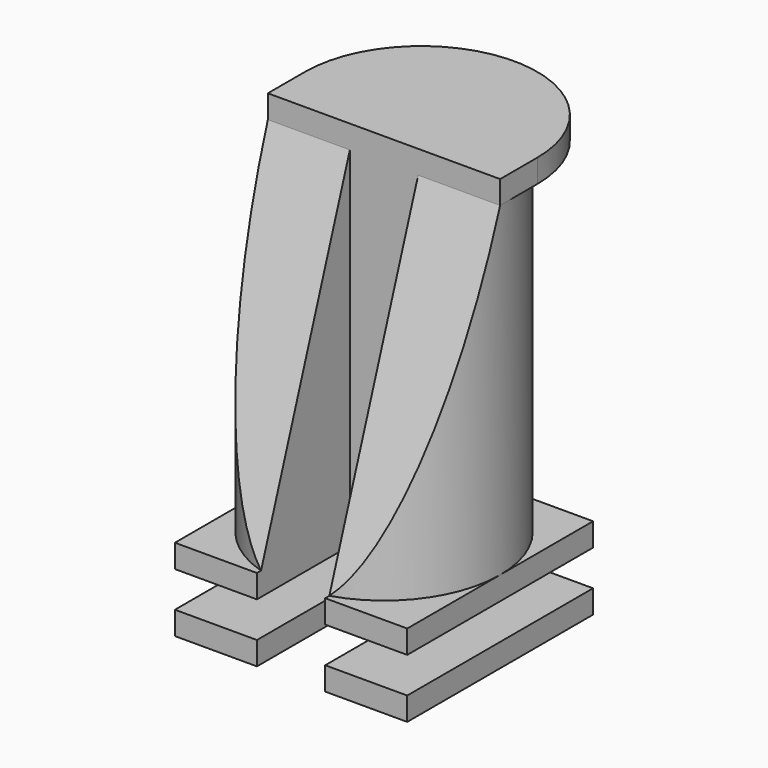
from build123d import *

# Parameters (mm, degrees)
F2_DEPTH  = 5
F3_W      = 14.7
F3_H      = 25
F4_DEPTH  = 7.7
F6_DEPTH  = 5
F8_DEPTH  = 70
F10_DEPTH = 5
F12_DEPTH = 50.001


with BuildPart() as f2:
    # F1 (on Top) → F2 (new body)
    with BuildSketch(Plane.XY):
        Polygon((0, 50), (0, 0), (17.65, 0), (17.65, 25), (32.35, 25), (32.35, 0), (50, 0), (50, 50), align=None)
    extrude(amount=F2_DEPTH)

    # F3 (on face) → F4 (join)
    with BuildSketch(Plane.XY.offset(5)):
        with Locations((25, 37.5)):
            Rectangle(F3_W, F3_H)
    extrude(amount=F4_DEPTH)

    # F5 (on face) → F6 (join)
    with BuildSketch(Plane.XY.offset(12.7)):
        Polygon((0, 50), (0, 0), (17.65, 0), (17.65, 25), (32.35, 25), (32.35, 0), (50, 0), (50, 50), align=None)
    extrude(amount=F6_DEPTH)

    # F7 (on face) → F8 (join)
    with BuildSketch(Plane.XY.offset(17.7)):
        with BuildLine():
            Line((32.35, 25), (32.35, 1.104865))
            ThreePointArc((32.35, 1.104865), (25, 50), (17.65, 1.104865))
            Line((17.65, 1.104865), (17.65, 25))
            Line((17.65, 25), (32.35, 25))
        make_face()
    extrude(amount=F8_DEPTH)

    # F9 (on face) → F10 (join)
    with BuildSketch(Plane.XY.offset(87.7)):
        with BuildLine():
            Line((0, 35), (0, 25))
            Line((0, 25), (50, 25))
            Line((50, 25), (50, 35))
            ThreePointArc((50, 35), (25, 60), (0, 35))
        make_face()
    extrude(amount=F10_DEPTH)

    # F11 (on Right) → F12 (cut, through all)
    with BuildSketch(Plane.YZ):
        Polygon((1.104865, 17.7), (25, 87.7), (1.104865, 87.7), align=None)
    extrude(amount=F12_DEPTH, mode=Mode.SUBTRACT)


solid = f2.part
